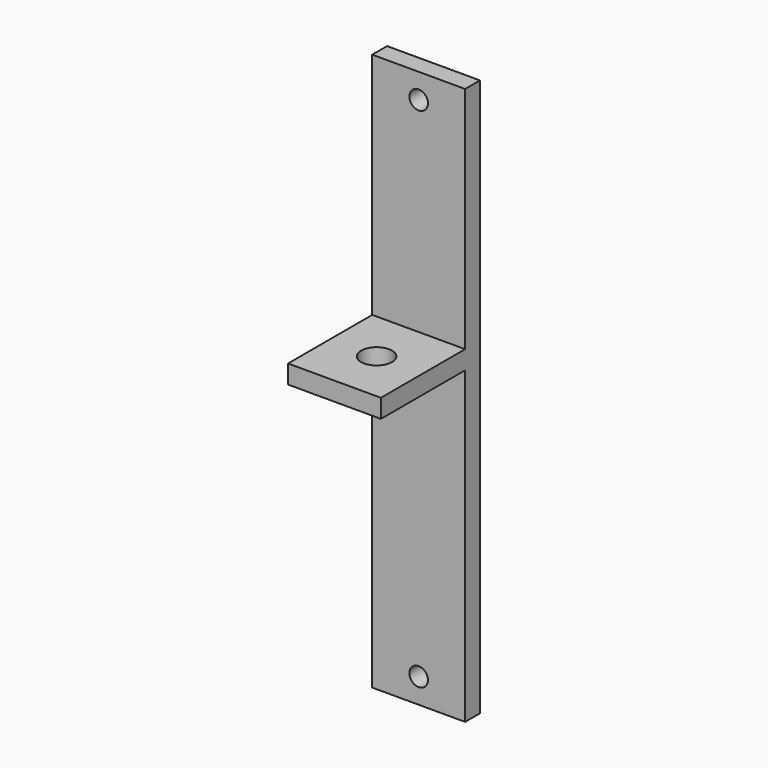
from build123d import *

# Parameters (mm, degrees)
F0_W     = 15
F0_H     = 90
F0_R     = 1.5
F1_DEPTH = 3
F2_W     = 15
F2_H     = 3
F3_DEPTH = 17
F4_R     = 2.5
F5_DEPTH = 53.001


with BuildPart() as f1:
    # F0 (on Front) → F1 (new body)
    with BuildSketch(Plane.XZ):
        Rectangle(F0_W, F0_H)
        with Locations((0, -41)):
            Circle(F0_R, mode=Mode.SUBTRACT)
        with Locations((0, 41)):
            Circle(F0_R, mode=Mode.SUBTRACT)
    extrude(amount=F1_DEPTH)

    # F2 (on face) → F3 (join)
    with BuildSketch(Plane.XZ.offset(3)):
        with Locations((0, 6.5)):
            Rectangle(F2_W, F2_H)
    extrude(amount=F3_DEPTH)

    # F4 (on face) → F5 (cut, through all)
    with BuildSketch(Plane.XY.offset(8)):
        with Locations((0, -11.5)):
            Circle(F4_R)
    extrude(amount=-F5_DEPTH, mode=Mode.SUBTRACT)


solid = f1.part
